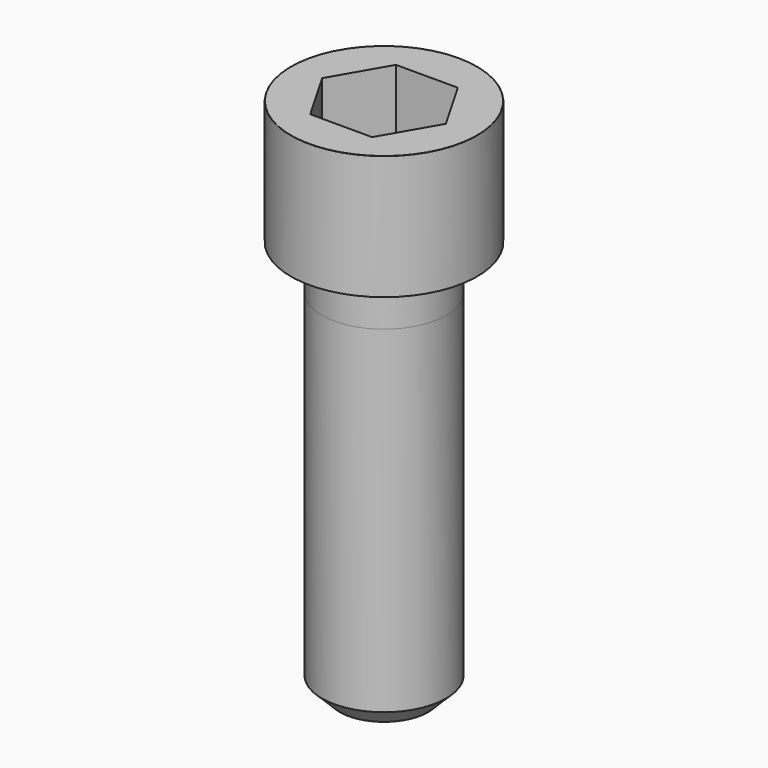
from build123d import *

# Parameters (mm, degrees)
POCKET_DEPTH = 12.07


with BuildPart() as part:
    # Sketch → Revolve (revolve)
    with BuildSketch(Plane.YZ):
        with BuildLine():
            Line((6.999, 0), (10.5, 0))
            Line((10.5, 0), (10.5, 13.97229))
            ThreePointArc((10.5, 13.97229), (10.491884, 13.991884), (10.47229, 14))
            Line((10.47229, 14), (0, 14))
            Line((0, -45), (0, 14))
            Line((5, -45), (0, -45))
            Line((7, -43), (5, -45))
            Line((7, -5), (7, -43))
            Line((6.999, 0), (7, -5))
        make_face()
    revolve(axis=Axis((0, 0, 0), (0, 0, 1)))

    # Sketch001 → Pocket (cut)
    with BuildSketch(Plane.XY.offset(14)):
        Polygon((6.968618, 0), (3.484309, 6.035), (-3.484309, 6.035), (-6.968618, 0), (-3.484309, -6.035), (3.484309, -6.035), align=None)
    extrude(amount=-POCKET_DEPTH, mode=Mode.SUBTRACT)


solid = part.part
